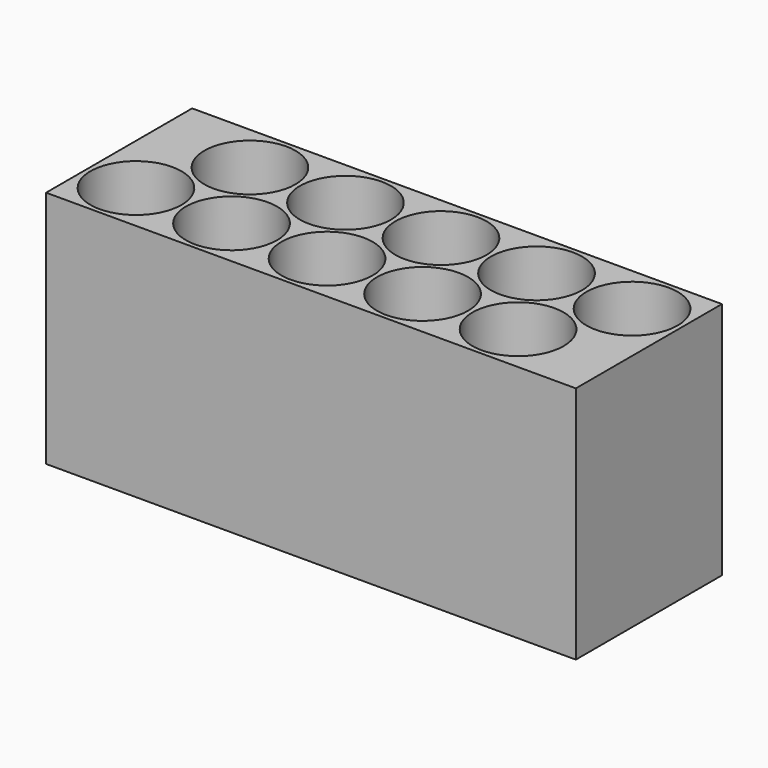
from build123d import *

# Parameters (mm, degrees)
F0_W     = 122
F0_H     = 42.052558
F0_R     = 10.5
F1_DEPTH = 55
F2_DEPTH = 2


with BuildPart() as f1:
    # F0 (on Top) → F1 (new body)
    with BuildSketch(Plane.XY):
        Rectangle(F0_W, F0_H)
        with Locations((-49.5, -9.526279)):
            Circle(F0_R, mode=Mode.SUBTRACT)
        with Locations((-27.5, -9.526279)):
            Circle(F0_R, mode=Mode.SUBTRACT)
        with Locations((-5.5, -9.526279)):
            Circle(F0_R, mode=Mode.SUBTRACT)
        with Locations((16.5, -9.526279)):
            Circle(F0_R, mode=Mode.SUBTRACT)
        with Locations((38.5, -9.526279)):
            Circle(F0_R, mode=Mode.SUBTRACT)
        with Locations((-38.5, 9.526279)):
            Circle(F0_R, mode=Mode.SUBTRACT)
        with Locations((-16.5, 9.526279)):
            Circle(F0_R, mode=Mode.SUBTRACT)
        with Locations((5.5, 9.526279)):
            Circle(F0_R, mode=Mode.SUBTRACT)
        with Locations((27.5, 9.526279)):
            Circle(F0_R, mode=Mode.SUBTRACT)
        with Locations((49.5, 9.526279)):
            Circle(F0_R, mode=Mode.SUBTRACT)
    extrude(amount=F1_DEPTH)

    # F0 (on Top) → F2 (join)
    with BuildSketch(Plane.XY):
        with Locations((-38.5, 9.526279)):
            Circle(F0_R)
        with Locations((-49.5, -9.526279)):
            Circle(F0_R)
        with Locations((-27.5, -9.526279)):
            Circle(F0_R)
        with Locations((-16.5, 9.526279)):
            Circle(F0_R)
        with Locations((-5.5, -9.526279)):
            Circle(F0_R)
        with Locations((5.5, 9.526279)):
            Circle(F0_R)
        with Locations((16.5, -9.526279)):
            Circle(F0_R)
        with Locations((27.5, 9.526279)):
            Circle(F0_R)
        with Locations((38.5, -9.526279)):
            Circle(F0_R)
        with Locations((49.5, 9.526279)):
            Circle(F0_R)
    extrude(amount=F2_DEPTH)


solid = f1.part
